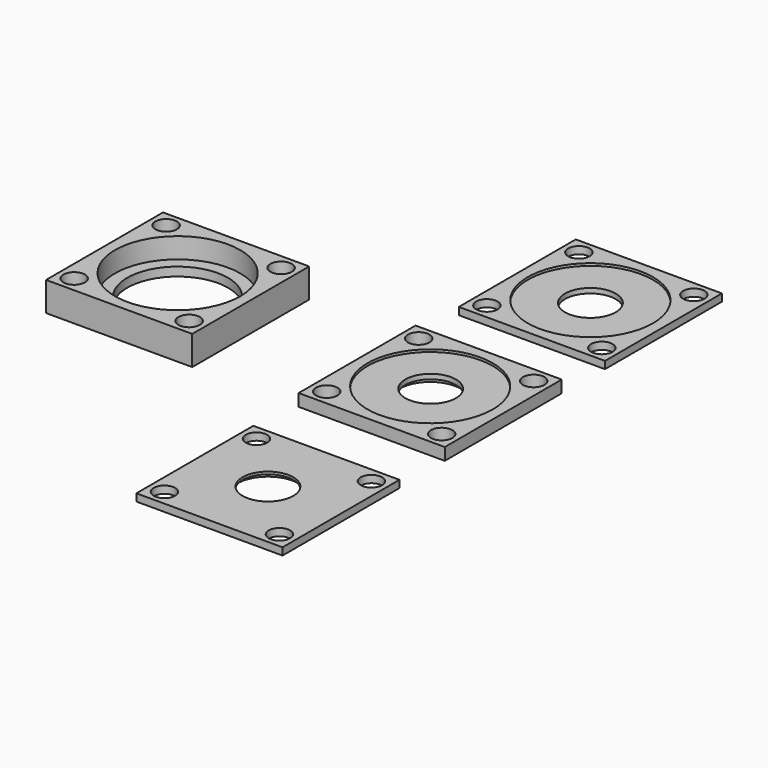
from build123d import *

# Parameters (mm, degrees)
F0_W      = 30
F0_H      = 30
F0_R      = 10.35
F1_DEPTH  = 6
F2_R      = 12.85
F2_R_2    = 10.35
F3_DEPTH  = 4.2
F5_D      = 4.4
F6_D      = 4.4
F7_D      = 4.4
F8_D      = 4.4
F9_W      = 30
F9_H      = 30
F10_DEPTH = 2.5
F11_R     = 5.2
F12_DEPTH = 6.001
F13_R     = 12.85
F13_R_2   = 5.2
F14_DEPTH = 0.5
F16_D     = 4.4
F17_D     = 4.4
F18_D     = 4.4
F19_D     = 4.4
F20_R     = 6.3
F20_R_2   = 5.2
F21_DEPTH = 1
F22_W     = 30
F22_H     = 30
F23_DEPTH = 1.5
F24_R     = 12.85
F25_DEPTH = 0.5
F26_R     = 5.2
F27_DEPTH = 6.001
F29_D     = 4.4
F30_D     = 4.4
F31_D     = 4.4
F32_D     = 4.4
F33_W     = 30
F33_H     = 30
F34_DEPTH = 1.5
F35_R     = 5.2
F36_DEPTH = 1.5
F37_R     = 6.3
F37_R_2   = 5.2
F38_DEPTH = 1
F40_D     = 4.4
F41_D     = 4.4
F42_D     = 4.4
F43_D     = 4.4


with BuildPart() as f1:
    # F0 (on Top) → F1 (new body)
    with BuildSketch(Plane.XY):
        with Locations((-24.7573502027, 0)):
            Rectangle(F0_W, F0_H)
        with Locations((-24.7573502027, 0)):
            Circle(F0_R, mode=Mode.SUBTRACT)
    extrude(amount=F1_DEPTH)

    # F2 (on face) → F3 (cut)
    with BuildSketch(Plane.XY.offset(6)):
        with Locations((-24.7573502027, 0)):
            Circle(F2_R)
        with Locations((-24.7573502027, 0)):
            Circle(F2_R_2, mode=Mode.SUBTRACT)
    extrude(amount=-F3_DEPTH, mode=Mode.SUBTRACT)

    # F5 (through all)
    with Locations(Plane.XY.offset(6)):
        with Locations((-36.5573502027, 11.8)):
            Hole(F5_D / 2)

    # F6 (through all)
    with Locations(Plane.XY.offset(6)):
        with Locations((-12.9573502027, 11.8)):
            Hole(F6_D / 2)

    # F7 (through all)
    with Locations(Plane.XY.offset(6)):
        with Locations((-36.5573502027, -11.8)):
            Hole(F7_D / 2)

    # F8 (through all)
    with Locations(Plane.XY.offset(6)):
        with Locations((-12.9573502027, -11.8)):
            Hole(F8_D / 2)


with BuildPart() as f10:
    # F9 (on Top) → F10 (new body)
    with BuildSketch(Plane.XY):
        with Locations((27.1766441874, -0.122615534)):
            Rectangle(F9_W, F9_H)
    extrude(amount=F10_DEPTH)

    # F11 (on face) → F12 (cut, through all)
    with BuildSketch(Plane(origin=(0, 0, 0), x_dir=(1, 0, 0), z_dir=(0, 0, -1))):
        with Locations((27.1766441874, 0)):
            Circle(F11_R)
    extrude(amount=-F12_DEPTH, mode=Mode.SUBTRACT)

    # F13 (on face) → F14 (cut)
    with BuildSketch(Plane.XY.offset(2.5)):
        with Locations((27.1766441874, -0.122615534)):
            Circle(F13_R)
        with Locations((27.1766441874, 0)):
            Circle(F13_R_2, mode=Mode.SUBTRACT)
    extrude(amount=-F14_DEPTH, mode=Mode.SUBTRACT)

    # F16 (through all)
    with Locations(Plane.XY.offset(2.5)):
        with Locations((15.3766441874, 11.677384466)):
            Hole(F16_D / 2)

    # F17 (through all)
    with Locations(Plane.XY.offset(2.5)):
        with Locations((38.9766441874, 11.677384466)):
            Hole(F17_D / 2)

    # F18 (through all)
    with Locations(Plane.XY.offset(2.5)):
        with Locations((15.3766441874, -11.922615534)):
            Hole(F18_D / 2)

    # F19 (through all)
    with Locations(Plane.XY.offset(2.5)):
        with Locations((38.9766441874, -11.922615534)):
            Hole(F19_D / 2)

    # F20 (on face) → F21 (cut)
    with BuildSketch(Plane(origin=(0, 0, 0), x_dir=(1, 0, 0), z_dir=(0, 0, -1))):
        with Locations((27.1766441874, 0.122615534)):
            Circle(F20_R)
        with Locations((27.1766441874, 0)):
            Circle(F20_R_2, mode=Mode.SUBTRACT)
    extrude(amount=-F21_DEPTH, mode=Mode.SUBTRACT)


with BuildPart() as f23:
    # F22 (on Top) → F23 (new body)
    with BuildSketch(Plane.XY):
        with Locations((27.3505486548, 40.7607750087)):
            Rectangle(F22_W, F22_H)
    extrude(amount=F23_DEPTH)

    # F24 (on face) → F25 (cut)
    with BuildSketch(Plane.XY.offset(1.5)):
        with Locations((27.3505486548, 40.7607750087)):
            Circle(F24_R)
    extrude(amount=-F25_DEPTH, mode=Mode.SUBTRACT)

    # F26 (on face) → F27 (cut, through all)
    with BuildSketch(Plane(origin=(0, 0, 0), x_dir=(1, 0, 0), z_dir=(0, 0, -1))):
        with Locations((27.3505486548, -40.7607750087)):
            Circle(F26_R)
    extrude(amount=-F27_DEPTH, mode=Mode.SUBTRACT)

    # F29 (through all)
    with Locations(Plane.XY.offset(1.5)):
        with Locations((15.5505486548, 52.5607750087)):
            Hole(F29_D / 2)

    # F30 (through all)
    with Locations(Plane.XY.offset(1.5)):
        with Locations((39.1505486548, 52.5607750087)):
            Hole(F30_D / 2)

    # F31 (through all)
    with Locations(Plane.XY.offset(1.5)):
        with Locations((15.5505486548, 28.9607750087)):
            Hole(F31_D / 2)

    # F32 (through all)
    with Locations(Plane.XY.offset(1.5)):
        with Locations((39.1505486548, 28.9607750087)):
            Hole(F32_D / 2)


with BuildPart() as f34:
    # F33 (on Top) → F34 (new body)
    with BuildSketch(Plane.XY):
        with Locations((27.4116075107, -42.0436402783)):
            Rectangle(F33_W, F33_H)
    extrude(amount=F34_DEPTH)

    # F35 (on face) → F36 (cut)
    with BuildSketch(Plane.XY.offset(1.5)):
        with Locations((27.4116075107, -42.0436402783)):
            Circle(F35_R)
    extrude(amount=-F36_DEPTH, mode=Mode.SUBTRACT)

    # F37 (on face) → F38 (cut)
    with BuildSketch(Plane(origin=(0, 0, 0), x_dir=(1, 0, 0), z_dir=(0, 0, -1))):
        with Locations((27.4116075107, 42.0436402783)):
            Circle(F37_R)
        with Locations((27.4116075107, 42.0436402783)):
            Circle(F37_R_2, mode=Mode.SUBTRACT)
    extrude(amount=-F38_DEPTH, mode=Mode.SUBTRACT)

    # F40 (through all)
    with Locations(Plane.XY.offset(1.5)):
        with Locations((15.6116075107, -53.8436402783)):
            Hole(F40_D / 2)

    # F41 (through all)
    with Locations(Plane.XY.offset(1.5)):
        with Locations((15.6116075107, -30.2436402783)):
            Hole(F41_D / 2)

    # F42 (through all)
    with Locations(Plane.XY.offset(1.5)):
        with Locations((39.2116075107, -53.8436402783)):
            Hole(F42_D / 2)

    # F43 (through all)
    with Locations(Plane.XY.offset(1.5)):
        with Locations((39.2116075107, -30.2436402783)):
            Hole(F43_D / 2)


solid = Compound([f1.part, f10.part, f23.part, f34.part])
